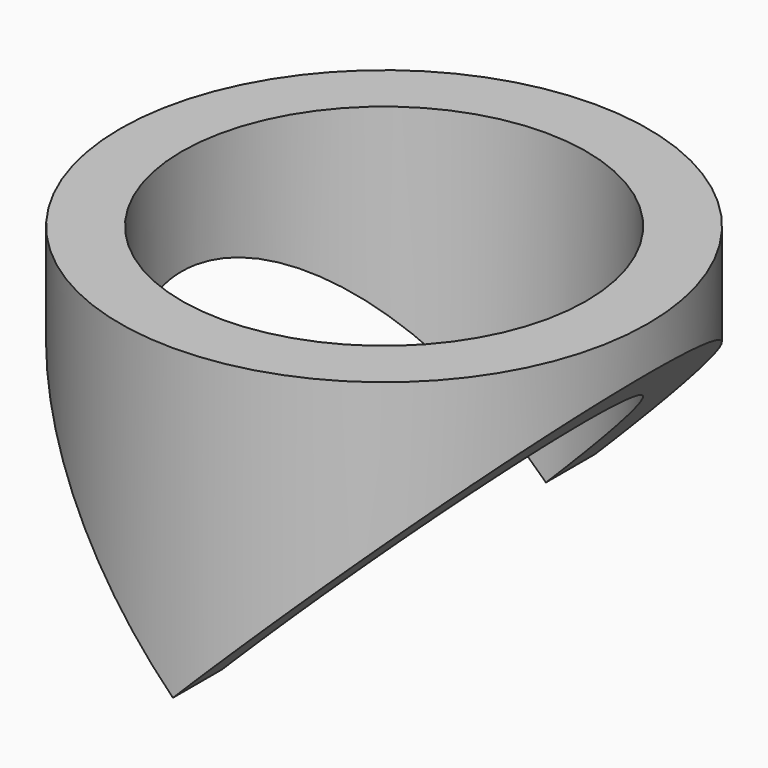
from build123d import *

# Parameters (mm, degrees)
F0_R          = 30
F0_R_2        = 23
F1_DEPTH      = 35
F3_DEPTH      = 40
F3_DEPTH_BACK = 40


with BuildPart() as f1:
    # F0 (on Top) → F1 (new body)
    with BuildSketch(Plane.XY):
        Circle(F0_R)
        Circle(F0_R_2, mode=Mode.SUBTRACT)
    extrude(amount=F1_DEPTH)

    # F2 (on Front) → F3 (cut, two sides)
    with BuildSketch(Plane.XZ) as f3_sk:
        Polygon((-30, 30), (-30, 0), (0, 0), align=None)
        Polygon((30, 30), (0, 0), (30, 0), align=None)
    extrude(amount=-F3_DEPTH, mode=Mode.SUBTRACT)
    extrude(f3_sk.sketch, amount=F3_DEPTH_BACK, mode=Mode.SUBTRACT)


solid = f1.part
